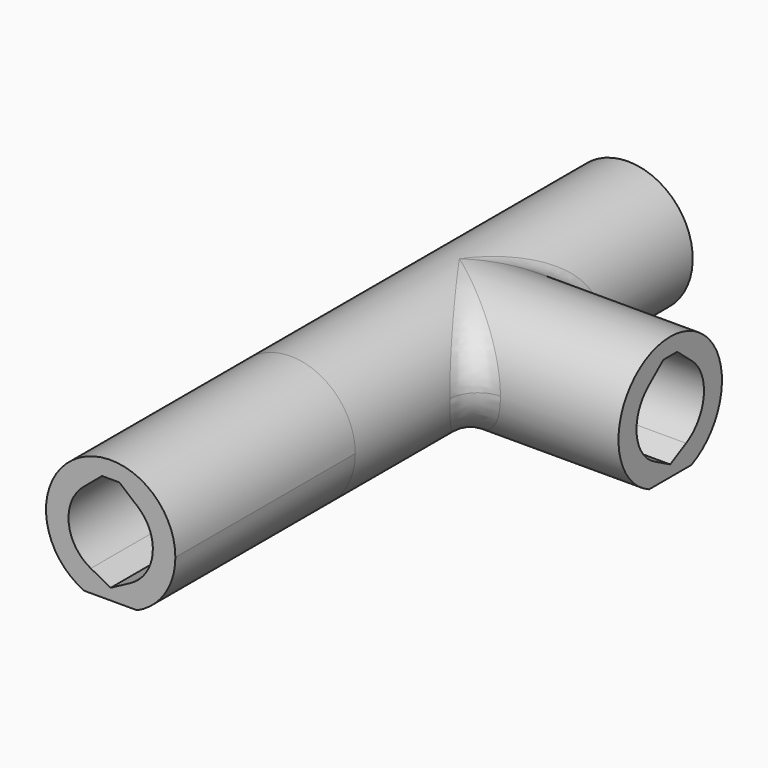
from build123d import *

# Parameters (mm, degrees)
SKETCH_R           = 2.3
PAD_DEPTH          = 7.5
SKETCH001_R        = 2.3
PAD001_DEPTH       = 7.5
POCKET_DEPTH       = 44.4982971986
POLARPATTERN_COUNT = 3
POLARPATTERN_ANGLE = 180
FILLET_R           = 1
SKETCH003_W        = 15
SKETCH003_H        = 15
POCKET001_DEPTH    = 0.2
PAD002_DEPTH       = 8


with BuildPart() as part:
    # Sketch → Pad (new body, symmetric)
    with BuildSketch(Plane.XZ):
        Circle(SKETCH_R)
    extrude(amount=PAD_DEPTH, both=True)

    # Sketch001 → Pad001 (join)
    with BuildSketch(Plane.YZ):
        Circle(SKETCH001_R)
    extrude(amount=PAD001_DEPTH)

    # Sketch002 → Pocket (cut, through all)
    with BuildSketch(Plane.XZ):
        with BuildLine():
            ThreePointArc((-0.9641814145, 1.1490666647), (-1.4918817266, -0.1558490097), (-0.7058823529, -1.3235294118))
            Line((-0.7058823529, -1.3235294118), (0, -1.7))
            Line((0, -1.7), (0.7058823529, -1.3235294118))
            ThreePointArc((0.7058823529, -1.3235294118), (1.4918817266, -0.1558490097), (0.9641814145, 1.1490666647))
            Line((0.3076046329, 1.7), (0.9641814145, 1.1490666647))
            Line((-0.3076046329, 1.7), (0.3076046329, 1.7))
            Line((-0.9641814145, 1.1490666647), (-0.3076046329, 1.7))
        make_face()
    pocket = extrude(amount=-POCKET_DEPTH, mode=Mode.SUBTRACT)

    # PolarPattern: Pocket ×3 about axis
    polarpattern_axis = Axis((0, 0, 0), (0, 0, -1))
    for i in range(1, POLARPATTERN_COUNT):
        add(pocket.rotate(polarpattern_axis, i * POLARPATTERN_ANGLE / (POLARPATTERN_COUNT - 1)), mode=Mode.SUBTRACT)

    # Fillet
    fillet_edges = [part.edges().sort_by_distance(p)[0] for p in [
        (1.485912, -1.485912, 1.755581),
        (1.485912, 1.485912, 1.755581),
    ]]
    fillet(fillet_edges, radius=FILLET_R)

    # Sketch003 → Pocket001 (cut)
    with BuildSketch(Plane(origin=(0, 0, -2.3), x_dir=(-1, 0, 0), z_dir=(0, 0, -1))):
        Rectangle(SKETCH003_W, SKETCH003_H)
    extrude(amount=-POCKET001_DEPTH, mode=Mode.SUBTRACT)

    # Pocket001 Face10 → Pad002 (add)
    with BuildSketch(Plane(origin=(0, -7.5, 0.0372192642), x_dir=(-1, 0, 0), z_dir=(0, -1, 0))):
        with BuildLine():
            ThreePointArc((-2.3, 0.0372192642), (1.2514808729, -1.892494607), (0.938083152, 2.1372192642))
            Line((0.938083152, 2.1372192642), (-0.938083152, 2.1372192642))
            ThreePointArc((-0.938083152, 2.1372192642), (-1.9297138712, 1.2887001371), (-2.3, 0.0372192642))
        make_face()
        with BuildLine():
            ThreePointArc((-0.9641814145, -1.1118474005), (-1.4918817266, 0.1930682739), (-0.7058823529, 1.360748676))
            Line((-0.7058823529, 1.360748676), (0, 1.7372192642))
            Line((0, 1.7372192642), (0.7058823529, 1.360748676))
            ThreePointArc((0.7058823529, 1.360748676), (1.4918817266, 0.1930682739), (0.9641814145, -1.1118474005))
            Line((0.9641814145, -1.1118474005), (0.3076046329, -1.6627807358))
            Line((0.3076046329, -1.6627807358), (-0.3076046329, -1.6627807358))
            Line((-0.3076046329, -1.6627807358), (-0.9641814145, -1.1118474005))
        make_face(mode=Mode.SUBTRACT)
    extrude(amount=PAD002_DEPTH)


solid = part.part
